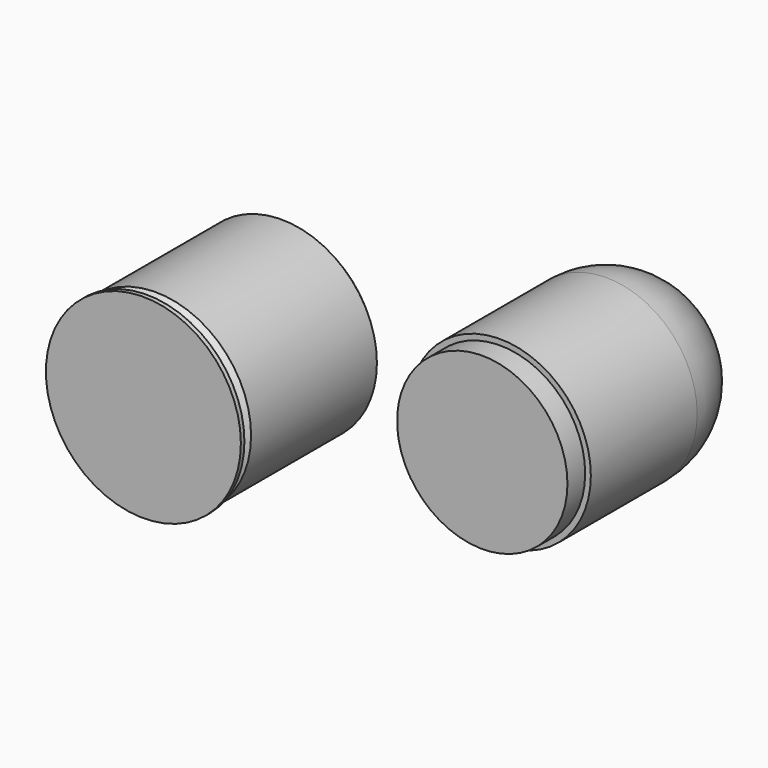
from build123d import *

# Parameters (mm, degrees)
F3_R      = 20
F4_DEPTH  = 35.4
F5_SIZE   = 1
F6_R      = 20.5
F7_DEPTH  = 50
F8_R      = 20
F9_R      = 19.2200418253
F10_DEPTH = 5


with BuildPart() as f2:
    # F0 (on Top) → F2 (revolve)
    with BuildSketch(Plane.XY):
        Polygon((-36.6252385923, 22.5971317332), (-36.6252385923, 52.5971317332), (-36.6252385923, 59.0971317332), (-58.1252385923, 59.0971317332), (-58.1252385923, 19.0971317332), (-38.1252385923, 19.0971317332), (-36.1252385923, 19.0971317332), (-36.1252385923, 20.0971317332), (-38.1252385923, 20.0971317332), (-38.1252385923, 21.0971317332), align=None)
    revolve(axis=Axis((-58.1252385923, 40.6790506285, 0), (0, -1, 0)))

    # F3 (on face) → F4 (cut)
    with BuildSketch(Plane(origin=(0, 59.0971317332, 0), x_dir=(-1, 0, 0), z_dir=(0, 1, 0))):
        with Locations((58.1252385923, 0)):
            Circle(F3_R)
    extrude(amount=-F4_DEPTH, mode=Mode.SUBTRACT)

    # F5
    f5_edges = [f2.edges().sort_by_distance(p)[0] for p in [
        (-79.625239, 59.097132, 0),
    ]]
    chamfer(f5_edges, length=F5_SIZE)


with BuildPart() as f7:
    # F6 (on Front) → F7 (new body)
    with BuildSketch(Plane.XZ):
        with Locations((37.6289188862, 32.0262089372)):
            Circle(F6_R)
    extrude(amount=-F7_DEPTH)

    # F8
    f8_edges = [f7.edges().sort_by_distance(p)[0] for p in [
        (17.128919, 50, 32.026209),
    ]]
    fillet(f8_edges, radius=F8_R)

    # F9 (on face) → F10 (join)
    with BuildSketch(Plane.XZ):
        with Locations((37.6289188862, 32.0262089372)):
            Circle(F9_R)
    extrude(amount=F10_DEPTH)


solid = Compound([f2.part, f7.part])
